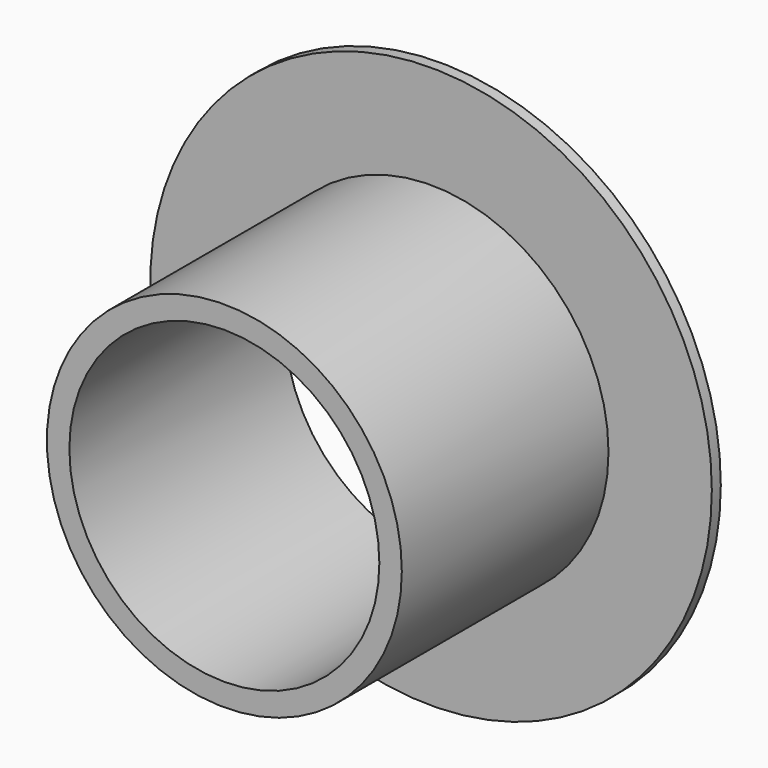
from build123d import *

# Parameters (mm, degrees)
F0_R      = 7.9
F0_R_2    = 6.9
F1_DEPTH  = 12
F2_R      = 12.5
F3_DEPTH  = 0.5
F3_FACE_R = 6.9
F4_DEPTH  = 0.5


with BuildPart() as f1:
    # F0 (on Front) → F1 (new body)
    with BuildSketch(Plane.XZ):
        Circle(F0_R)
        Circle(F0_R_2, mode=Mode.SUBTRACT)
    extrude(amount=F1_DEPTH)

    # F2 (on Front) → F3 (join)
    with BuildSketch(Plane.XZ):
        Circle(F2_R)
    extrude(amount=F3_DEPTH)

    # F3_face (on face) → F4 (cut)
    with BuildSketch(Plane.XZ.offset(0.5)):
        Circle(F3_FACE_R)
    extrude(amount=-F4_DEPTH, mode=Mode.SUBTRACT)


solid = f1.part
